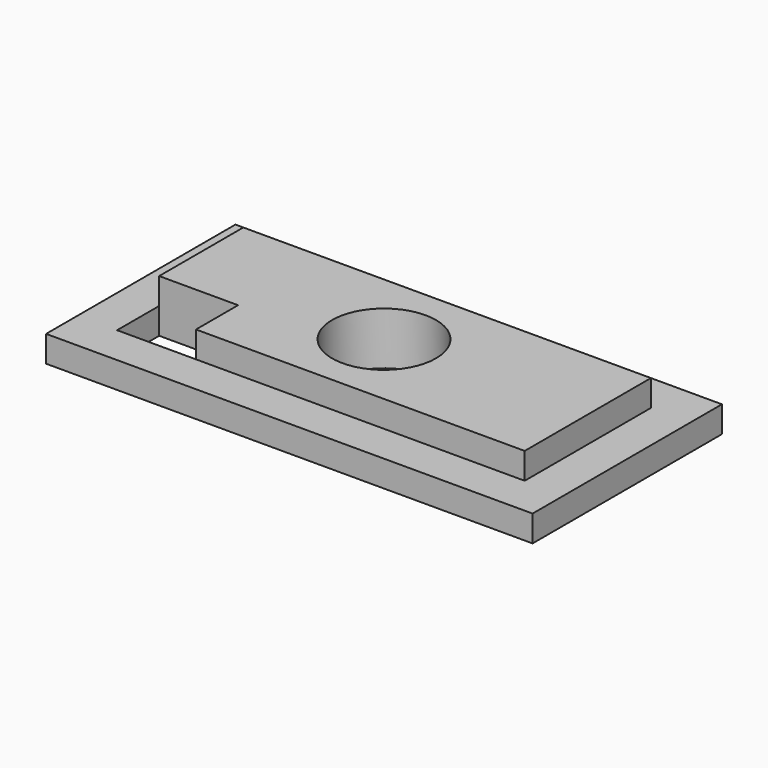
from build123d import *

# Parameters (mm, degrees)
F0_W     = 18.5
F0_H     = 9
F1_DEPTH = 1
F2_W     = 15.5
F2_H     = 6
F3_DEPTH = 1
F4_R     = 1.975
F4_W     = 3
F4_H     = 2
F5_DEPTH = 2


with BuildPart() as f1:
    # F0 (on Top) → F1 (new body)
    with BuildSketch(Plane.XY):
        Rectangle(F0_W, F0_H)
    extrude(amount=F1_DEPTH)

    # F2 (on face) → F3 (join)
    with BuildSketch(Plane.XY.offset(1)):
        Rectangle(F2_W, F2_H)
    extrude(amount=F3_DEPTH)

    # F4 (on face) → F5 (cut)
    with BuildSketch(Plane.XY.offset(2)):
        Circle(F4_R)
        with Locations((-6.25, -2)):
            Rectangle(F4_W, F4_H)
    extrude(amount=-F5_DEPTH, mode=Mode.SUBTRACT)


solid = f1.part
